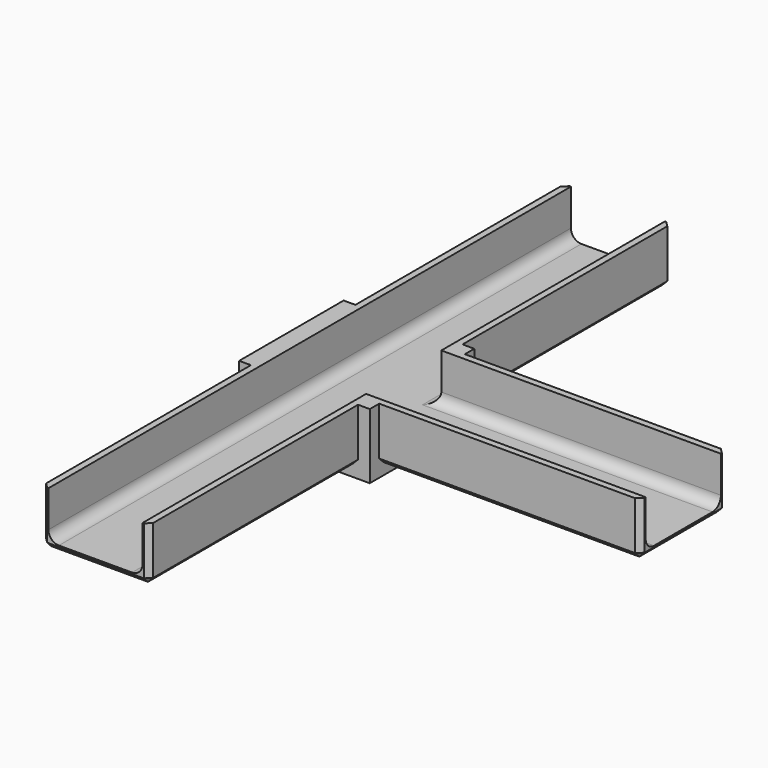
from build123d import *

# Parameters (mm, degrees)
SKETCH_W        = 25
SKETCH_H        = 25
PAD_DEPTH       = 12.5
THICKNESS_T     = -3.5
SKETCH001_W     = 18
SKETCH001_H     = 9
POCKET_DEPTH    = 3.5
PAD001_DEPTH    = 50
CHAMFER_SIZE    = 1
SKETCH003_W     = 18
SKETCH003_H     = 9
POCKET001_DEPTH = 3.5
PAD002_DEPTH    = 50
CHAMFER001_SIZE = 1
SKETCH005_W     = 18
SKETCH005_H     = 9
POCKET002_DEPTH = 3.5
PAD003_DEPTH    = 50
CHAMFER002_SIZE = 1
FILLET_R        = 2
FILLET001_R     = 2
FILLET002_R     = 2
FILLET003_R     = 2
FILLET004_R     = 2


with BuildPart() as part:
    # Sketch → Pad (new body)
    with BuildSketch(Plane.XY):
        Rectangle(SKETCH_W, SKETCH_H)
    extrude(amount=PAD_DEPTH)

    # Thickness
    thickness_openings = [part.faces().sort_by_distance(p)[0] for p in [
        (0, 0, 12.5),
    ]]
    offset(amount=THICKNESS_T, openings=thickness_openings, kind=Kind.INTERSECTION)

    # Sketch001 (on Face2 of Thickness) → Pocket (cut)
    with BuildSketch(Plane.XZ.offset(12.5)):
        with Locations((0, 8)):
            Rectangle(SKETCH001_W, SKETCH001_H)
    extrude(amount=-POCKET_DEPTH, mode=Mode.SUBTRACT)

    # Sketch002 (on Face3 of Pocket) → Pad001 (join)
    with BuildSketch(Plane.XZ.offset(12.5)):
        Polygon((-10.25, 12.5), (-10.25, 2.25), (10.25, 2.25), (10.25, 12.5), (9, 12.5), (9, 3.5), (-9, 3.5), (-9, 12.5), align=None)
    extrude(amount=PAD001_DEPTH)

    # Chamfer
    chamfer_edges = [part.edges().sort_by_distance(p)[0] for p in [
        (0, -62.5, 2.25),
        (10.25, -37.5, 2.25),
        (-10.25, -37.5, 2.25),
        (10.25, -62.5, 7.375),
        (-10.25, -62.5, 7.375),
    ]]
    chamfer(chamfer_edges, length=CHAMFER_SIZE)

    # Sketch003 (on Face6 of Chamfer) → Pocket001 (cut)
    with BuildSketch(Plane.YZ.offset(12.5)):
        with Locations((0, 8)):
            Rectangle(SKETCH003_W, SKETCH003_H)
    extrude(amount=-POCKET001_DEPTH, mode=Mode.SUBTRACT)

    # Sketch004 (on Face6 of Pocket001) → Pad002 (join)
    with BuildSketch(Plane.YZ.offset(12.5)):
        Polygon((10.25, 12.5), (10.25, 2.25), (-10.25, 2.25), (-10.25, 12.5), (-9, 12.5), (-9, 3.5), (9, 3.5), (9, 12.5), align=None)
    extrude(amount=PAD002_DEPTH)

    # Chamfer001
    chamfer001_edges = [part.edges().sort_by_distance(p)[0] for p in [
        (37.5, -10.25, 2.25),
        (62.5, -10.25, 7.375),
        (62.5, 0, 2.25),
        (62.5, 10.25, 7.375),
        (37.5, 10.25, 2.25),
    ]]
    chamfer(chamfer001_edges, length=CHAMFER001_SIZE)

    # Sketch005 → Pocket002 (cut)
    with BuildSketch(Plane(origin=(0, 12.5, 0), x_dir=(-1, 0, 0), z_dir=(0, 1, 0))):
        with Locations((0, 8)):
            Rectangle(SKETCH005_W, SKETCH005_H)
    extrude(amount=-POCKET002_DEPTH, mode=Mode.SUBTRACT)

    # Sketch006 (on Face6 of Pocket002) → Pad003 (join)
    with BuildSketch(Plane(origin=(0, 12.5, 0), x_dir=(-1, 0, 0), z_dir=(0, 1, 0))):
        Polygon((10.25, 12.5), (10.25, 2.25), (-10.25, 2.25), (-10.25, 12.5), (-9, 12.5), (-9, 3.5), (9, 3.5), (9, 12.5), align=None)
    extrude(amount=PAD003_DEPTH)

    # Chamfer002
    chamfer002_edges = [part.edges().sort_by_distance(p)[0] for p in [
        (-10.25, 37.5, 2.25),
        (0, 62.5, 2.25),
        (-10.25, 62.5, 7.375),
        (10.25, 62.5, 7.375),
        (10.25, 37.5, 2.25),
    ]]
    chamfer(chamfer002_edges, length=CHAMFER002_SIZE)

    # Fillet
    fillet_edges = [part.edges().sort_by_distance(p)[0] for p in [
        (-9, 37.5, 3.5),
    ]]
    fillet(fillet_edges, radius=FILLET_R)

    # Fillet001
    fillet001_edges = [part.edges().sort_by_distance(p)[0] for p in [
        (9, 37.5, 3.5),
    ]]
    fillet(fillet001_edges, radius=FILLET001_R)

    # Fillet002
    fillet002_edges = [part.edges().sort_by_distance(p)[0] for p in [
        (37.5, 9, 3.5),
    ]]
    fillet(fillet002_edges, radius=FILLET002_R)

    # Fillet003
    fillet003_edges = [part.edges().sort_by_distance(p)[0] for p in [
        (9, -37.5, 3.5),
    ]]
    fillet(fillet003_edges, radius=FILLET003_R)

    # Fillet004
    fillet004_edges = [part.edges().sort_by_distance(p)[0] for p in [
        (37.5, -9, 3.5),
    ]]
    fillet(fillet004_edges, radius=FILLET004_R)


solid = part.part
